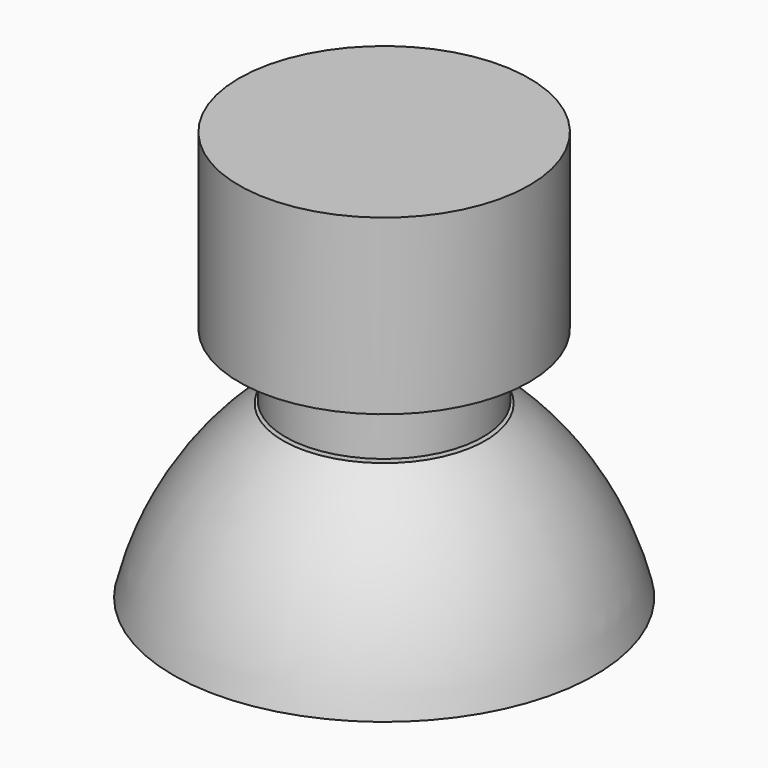
from build123d import *


with BuildPart() as f2:
    # F0 (on Front) + F1 (on Front) → F2 (revolve)
    with BuildSketch(Plane.XZ):
        with BuildLine():
            Line((-24.895199, -6.763435), (-11.943938, 13.382968))
            ThreePointArc((-11.943938, 13.382968), (-20.122713, 4.404645), (-24.895199, -6.763435))
        make_face()
        Polygon((0, 13.382968), (-11.943938, 13.382968), (-24.895199, -6.763435), (0, -6.763435), align=None)
    with BuildSketch(Plane.XZ):
        Polygon((0, 13.670774), (0, 41.58793), (-17.124442, 41.58793), (-17.124442, 21.153724), (-11.656133, 21.153724), (-11.656133, 13.670774), align=None)
    revolve(axis=Axis((0, 0, 27.629352), (0, 0, -1)))


solid = f2.part
